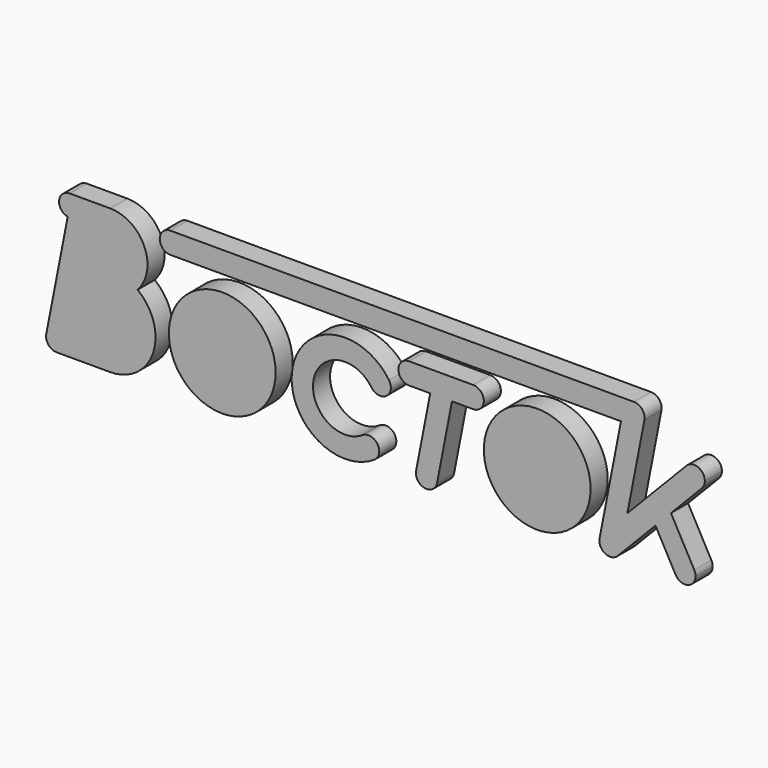
from build123d import *

# Parameters (mm, degrees)
F0_R     = 0.5
F0_R_2   = 0.3
F1_DEPTH = 0.2


with BuildPart() as f1:
    # F0 (on Front) → F1 (new body)
    with BuildSketch(Plane.XZ):
        with Locations((-20.316373, -12.603257)):
            Circle(F0_R)
        with Locations((-20.316373, -12.603257)):
            Circle(F0_R_2, mode=Mode.SUBTRACT)
        with Locations((-17.366373, -12.603257)):
            Circle(F0_R)
        with Locations((-17.366373, -12.603257)):
            Circle(F0_R_2, mode=Mode.SUBTRACT)
        with BuildLine():
            ThreePointArc((-16.78232, -12.984176), (-16.674572, -12.903717), (-16.584157, -13.003257))
            ThreePointArc((-16.584157, -13.003257), (-16.591459, -13.040768), (-16.612299, -13.072801))
            Line((-16.612299, -13.072801), (-16.258862, -12.707602))
            Line((-16.258862, -12.707602), (-16.070708, -13.051278))
            ThreePointArc((-16.070708, -13.051278), (-16.031015, -12.915542), (-15.895278, -12.955235))
            Line((-15.895278, -12.955235), (-16.113233, -12.557126))
            Line((-16.113233, -12.557126), (-15.82441, -12.258692))
            ThreePointArc((-15.82441, -12.258692), (-15.965813, -12.261006), (-15.968127, -12.119604))
            Line((-15.968127, -12.119604), (-16.521707, -12.691606))
            Line((-16.521707, -12.691606), (-16.362457, -11.872338))
            ThreePointArc((-16.362457, -11.872338), (-16.383457, -11.789649), (-16.46062, -11.753257))
            Line((-16.46062, -11.753257), (-20.801771, -11.753257))
            ThreePointArc((-20.801771, -11.753257), (-20.901771, -11.853257), (-20.801771, -11.953257))
            Line((-20.801771, -11.953257), (-16.581929, -11.953257))
            Line((-16.581929, -11.953257), (-16.78232, -12.984176))
        make_face()
        with BuildLine():
            Line((-21.366373, -11.753257), (-21.744707, -11.753257))
            ThreePointArc((-21.744707, -11.753257), (-21.844247, -11.843672), (-21.763788, -11.951419))
            Line((-21.763788, -11.951419), (-21.964535, -12.984176))
            ThreePointArc((-21.964535, -12.984176), (-21.943535, -13.066865), (-21.866373, -13.103257))
            Line((-21.866373, -13.103257), (-21.366373, -13.103257))
            ThreePointArc((-21.366373, -13.103257), (-20.963698, -12.814192), (-21.108785, -12.340213))
            ThreePointArc((-21.108785, -12.340213), (-21.045877, -11.962606), (-21.366373, -11.753257))
        make_face()
        with BuildLine():
            ThreePointArc((-21.366373, -12.453257), (-21.141373, -12.678257), (-21.366373, -12.903257))
            Line((-21.366373, -12.903257), (-21.745063, -12.903257))
            Line((-21.745063, -12.903257), (-21.657592, -12.453257))
            Line((-21.657592, -12.453257), (-21.366373, -12.453257))
        make_face(mode=Mode.SUBTRACT)
        with BuildLine():
            ThreePointArc((-21.366373, -11.953257), (-21.216373, -12.103257), (-21.366373, -12.253257))
            Line((-21.366373, -12.253257), (-21.618716, -12.253257))
            Line((-21.618716, -12.253257), (-21.560402, -11.953257))
            Line((-21.560402, -11.953257), (-21.366373, -11.953257))
        make_face(mode=Mode.SUBTRACT)
        with BuildLine():
            Line((-17.966373, -12.103257), (-18.566373, -12.103257))
            ThreePointArc((-18.566373, -12.103257), (-18.666373, -12.203257), (-18.566373, -12.303257))
            Line((-18.566373, -12.303257), (-18.368223, -12.303257))
            Line((-18.368223, -12.303257), (-18.50058, -12.984176))
            ThreePointArc((-18.50058, -12.984176), (-18.420061, -13.101688), (-18.303739, -13.019461))
            Line((-18.303739, -13.019461), (-18.164523, -12.303257))
            Line((-18.164523, -12.303257), (-17.966373, -12.303257))
            ThreePointArc((-17.966373, -12.303257), (-17.866373, -12.203257), (-17.966373, -12.103257))
        make_face()
        with Locations((-17.366373, -12.603257)):
            Circle(F0_R_2)
        with BuildLine():
            Line((-21.618716, -12.253257), (-21.366373, -12.253257))
            ThreePointArc((-21.366373, -12.253257), (-21.216373, -12.103257), (-21.366373, -11.953257))
            Line((-21.366373, -11.953257), (-21.560402, -11.953257))
            Line((-21.560402, -11.953257), (-21.618716, -12.253257))
        make_face()
        with BuildLine():
            Line((-21.745063, -12.903257), (-21.366373, -12.903257))
            ThreePointArc((-21.366373, -12.903257), (-21.141373, -12.678257), (-21.366373, -12.453257))
            Line((-21.366373, -12.453257), (-21.657592, -12.453257))
            Line((-21.657592, -12.453257), (-21.745063, -12.903257))
        make_face()
        with Locations((-20.316373, -12.603257)):
            Circle(F0_R_2)
        with BuildLine():
            ThreePointArc((-18.919265, -12.433146), (-18.780192, -12.458812), (-18.754526, -12.319739))
            ThreePointArc((-18.754526, -12.319739), (-19.657186, -12.507852), (-18.890722, -13.02041))
            ThreePointArc((-18.890722, -13.02041), (-18.862422, -12.881849), (-19.000982, -12.853549))
            ThreePointArc((-19.000982, -12.853549), (-19.460861, -12.546014), (-18.919265, -12.433146))
        make_face()
        with BuildLine():
            ThreePointArc((-15.895278, -12.955235), (-16.031015, -12.915542), (-16.070708, -13.051278))
            ThreePointArc((-16.070708, -13.051278), (-15.958209, -13.100137), (-15.882993, -13.003257))
            ThreePointArc((-15.882993, -13.003257), (-15.886113, -12.978473), (-15.895278, -12.955235))
        make_face()
        with BuildLine():
            ThreePointArc((-15.968127, -12.119604), (-15.965813, -12.261006), (-15.82441, -12.258692))
            ThreePointArc((-15.82441, -12.258692), (-15.803571, -12.226659), (-15.796269, -12.189148))
            ThreePointArc((-15.796269, -12.189148), (-15.858758, -12.09645), (-15.968127, -12.119604))
        make_face()
        with BuildLine():
            ThreePointArc((-16.612299, -13.072801), (-16.591459, -13.040768), (-16.584157, -13.003257))
            ThreePointArc((-16.584157, -13.003257), (-16.674572, -12.903717), (-16.78232, -12.984176))
            ThreePointArc((-16.78232, -12.984176), (-16.73038, -13.091933), (-16.612299, -13.072801))
        make_face()
    extrude(amount=F1_DEPTH)


solid = f1.part
